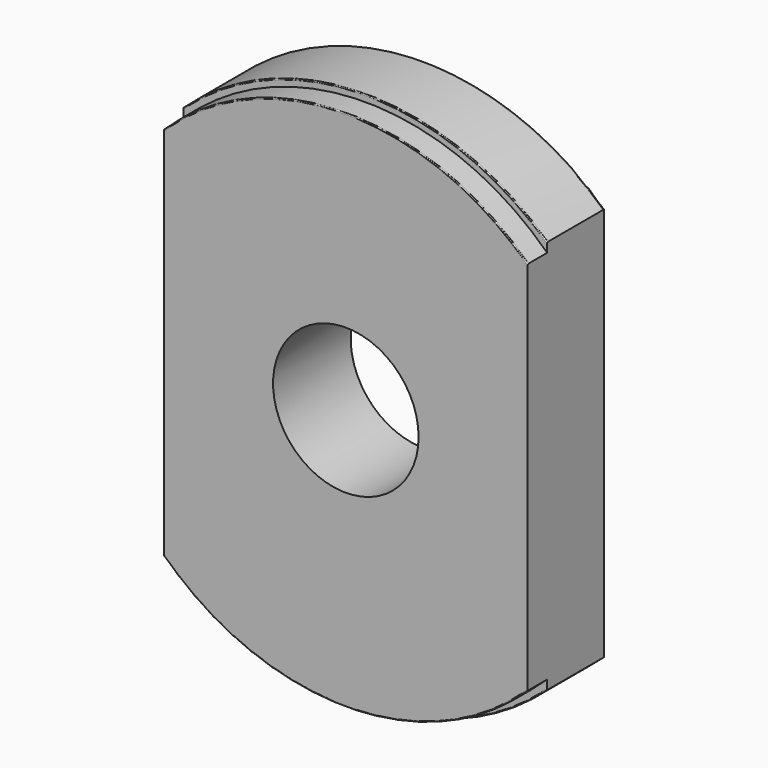
from build123d import *

# Parameters (mm, degrees)
F0_R     = 55.3
F1_DEPTH = 15
F2_R     = 53.9
F3_DEPTH = 5
F4_R     = 15
F5_DEPTH = 25
F7_DEPTH = 25
F8_R     = 0.5
F9_R     = 0.2


with BuildPart() as f1:
    # F0 (on Front) → F1 (new body)
    with BuildSketch(Plane.XZ):
        Circle(F0_R)
    extrude(amount=F1_DEPTH)

    # F2 (on face) → F3 (join)
    with BuildSketch(Plane.XZ.offset(15)):
        Circle(F2_R)
    extrude(amount=F3_DEPTH)

    # F4 (on face) → F5 (cut)
    with BuildSketch(Plane.XZ.offset(20)):
        Circle(F4_R)
    extrude(amount=-F5_DEPTH, mode=Mode.SUBTRACT)

    # F6 (on face) → F7 (cut)
    with BuildSketch(Plane(origin=(0, 0, 0), x_dir=(-1, 0, 0), z_dir=(0, 1, 0))):
        with BuildLine():
            Line((37.5, 40.6428345468), (37.5, -40.6428345468))
            ThreePointArc((37.5, -40.6428345468), (50.6549109169, -22.1849047778), (55.3, 0))
            ThreePointArc((55.3, 0), (50.6549109169, 22.1849047778), (37.5, 40.6428345468))
        make_face()
        with BuildLine():
            ThreePointArc((-37.5, 40.6428345468), (-55.3, 0), (-37.5, -40.6428345468))
            Line((-37.5, -40.6428345468), (-37.5, 40.6428345468))
        make_face()
    extrude(amount=-F7_DEPTH, mode=Mode.SUBTRACT)

    # F8
    f8_edges = [f1.edges().sort_by_distance(p)[0] for p in [
        (37.5, 0, 0),
        (0, 0, 55.3),
        (0, 0, -55.3),
        (-37.5, 0, 0),
    ]]
    fillet(f8_edges, radius=F8_R)

    # F9
    f9_edges = [f1.edges().sort_by_distance(p)[0] for p in [
        (0, -20, -53.9),
        (0, -20, 53.9),
        (0, -15, 55.3),
        (0, -15, -55.3),
    ]]
    fillet(f9_edges, radius=F9_R)


solid = f1.part
